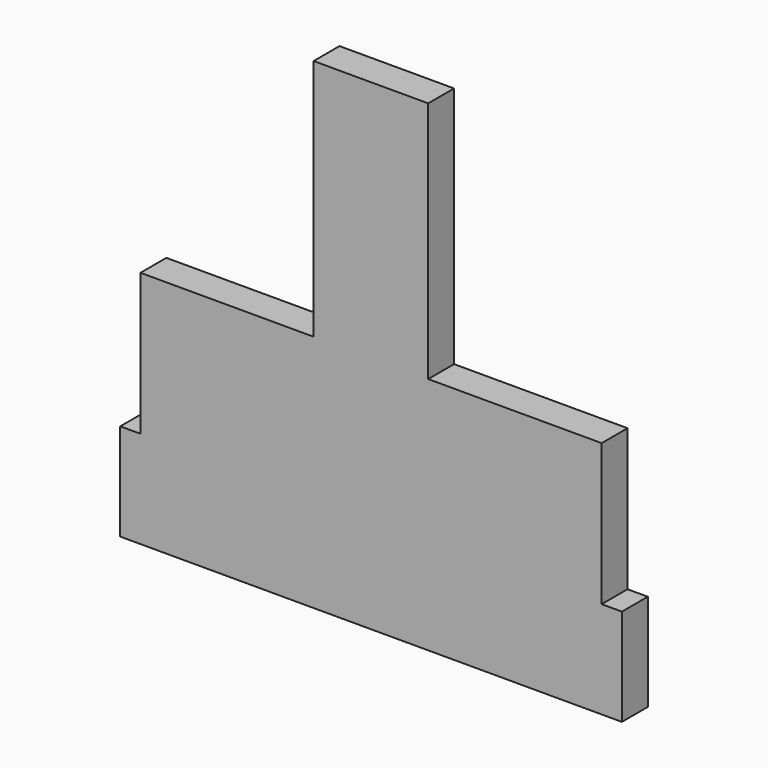
from build123d import *

# Parameters (mm, degrees)
F0_W     = 44.958
F0_H     = 95.25
F1_DEPTH = 12.7


with BuildPart() as f1:
    # F0 (on Front) → F1 (new body)
    with BuildSketch(Plane.XZ):
        Polygon((0, 38.1), (0, 0), (196.85, 0), (196.85, 38.1), (188.9125, 38.1), (7.9375, 38.1), align=None)
        Polygon((7.9375, 93.726), (7.9375, 38.1), (188.9125, 38.1), (188.9125, 93.726), (120.8405, 93.726), (75.8825, 93.726), align=None)
        with Locations((98.3615, 141.351)):
            Rectangle(F0_W, F0_H)
    extrude(amount=F1_DEPTH)


solid = f1.part
